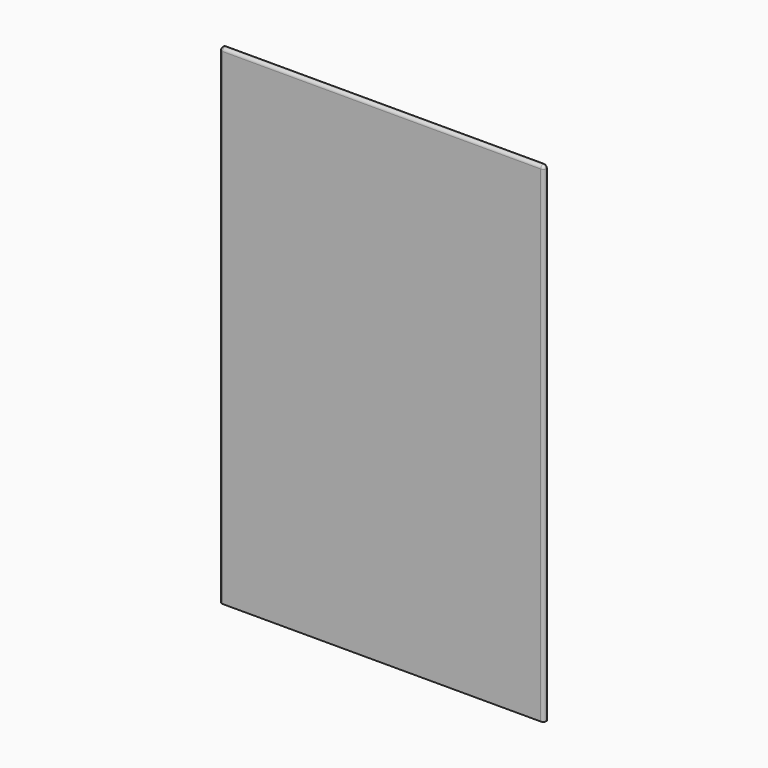
from build123d import *

# Parameters (mm, degrees)
F0_W     = 1076.96
F0_H     = 1625.6
F1_DEPTH = 12.7
F2_R     = 10.16
F3_R     = 10.16


with BuildPart() as f1:
    # F0 (on Front) → F1 (new body)
    with BuildSketch(Plane.XZ):
        Rectangle(F0_W, F0_H)
    extrude(amount=F1_DEPTH)

    # F2
    f2_edges = [f1.edges().sort_by_distance(p)[0] for p in [
        (0, -12.7, 812.8),
    ]]
    fillet(f2_edges, radius=F2_R)

    # F3
    f3_edges = [f1.edges().sort_by_distance(p)[0] for p in [
        (538.48, -12.7, -5.08),
        (-538.48, -12.7, -5.08),
    ]]
    fillet(f3_edges, radius=F3_R)


solid = f1.part
